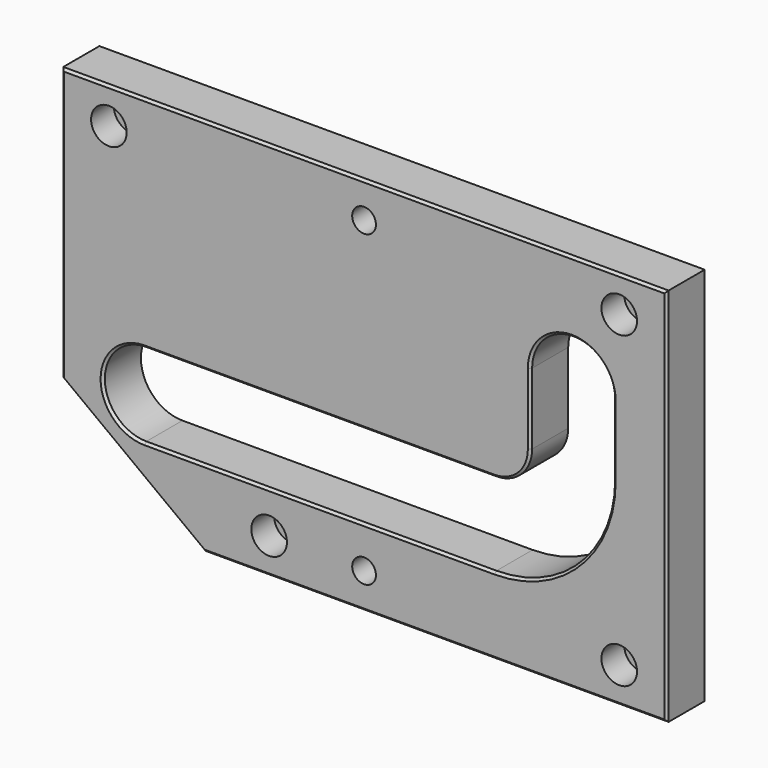
from build123d import *

# Parameters (mm, degrees)
F0_R     = 5
F1_DEPTH = 20
F2_R     = 7.5
F2_R_2   = 4.5
F3_DEPTH = 12
F4_DEPTH = 25
F5_SIZE2 = 1
F5_SIZE  = 1


with BuildPart() as f1:
    # F0 (on Front) → F1 (new body)
    with BuildSketch(Plane.XZ):
        Polygon((0, 45), (60, 0), (255, 0), (255, 160), (0, 160), align=None)
        with Locations((127.5, 15)):
            Circle(F0_R, mode=Mode.SUBTRACT)
        with BuildLine():
            ThreePointArc((35, 32.5), (17.5, 50), (35, 67.5))
            Line((35, 67.5), (182.5, 67.5))
            ThreePointArc((182.5, 67.5), (193.106602, 71.893398), (197.5, 82.5))
            Line((197.5, 82.5), (197.5, 112.5))
            ThreePointArc((197.5, 112.5), (215, 130), (232.5, 112.5))
            Line((232.5, 112.5), (232.5, 82.5))
            ThreePointArc((232.5, 82.5), (217.855339, 47.144661), (182.5, 32.5))
            Line((182.5, 32.5), (35, 32.5))
        make_face(mode=Mode.SUBTRACT)
        with Locations((127.5, 145)):
            Circle(F0_R, mode=Mode.SUBTRACT)
    extrude(amount=-F1_DEPTH)

    # F2 (on face) → F3 (cut)
    with BuildSketch(Plane.XZ):
        with Locations((20, 145)):
            Circle(F2_R)
        with Locations((20, 145)):
            Circle(F2_R_2, mode=Mode.SUBTRACT)
        with Locations((235, 145)):
            Circle(F2_R)
        with Locations((235, 145)):
            Circle(F2_R_2, mode=Mode.SUBTRACT)
        with Locations((235, 15)):
            Circle(F2_R)
        with Locations((235, 15)):
            Circle(F2_R_2, mode=Mode.SUBTRACT)
        with Locations((87.5, 15)):
            Circle(F2_R)
        with Locations((87.5, 15)):
            Circle(F2_R_2, mode=Mode.SUBTRACT)
    extrude(amount=-F3_DEPTH, mode=Mode.SUBTRACT)

    # F2 (on face) → F4 (cut)
    with BuildSketch(Plane.XZ):
        with Locations((20, 145)):
            Circle(F2_R_2)
        with Locations((235, 145)):
            Circle(F2_R_2)
        with Locations((87.5, 15)):
            Circle(F2_R_2)
        with Locations((235, 15)):
            Circle(F2_R_2)
    extrude(amount=-F4_DEPTH, mode=Mode.SUBTRACT)

    # F5
    f5_edges = [f1.edges().sort_by_distance(p)[0] for p in [
        (157.5, 0, 0),
        (255, 0, 80),
        (127.5, 0, 160),
        (0, 0, 102.5),
        (30, 0, 22.5),
        (108.75, 0, 67.5),
        (17.5, 0, 50),
        (108.75, 0, 32.5),
        (217.855339, 0, 47.144661),
    ]]
    chamfer(f5_edges, length=F5_SIZE, length2=F5_SIZE2)


solid = f1.part
